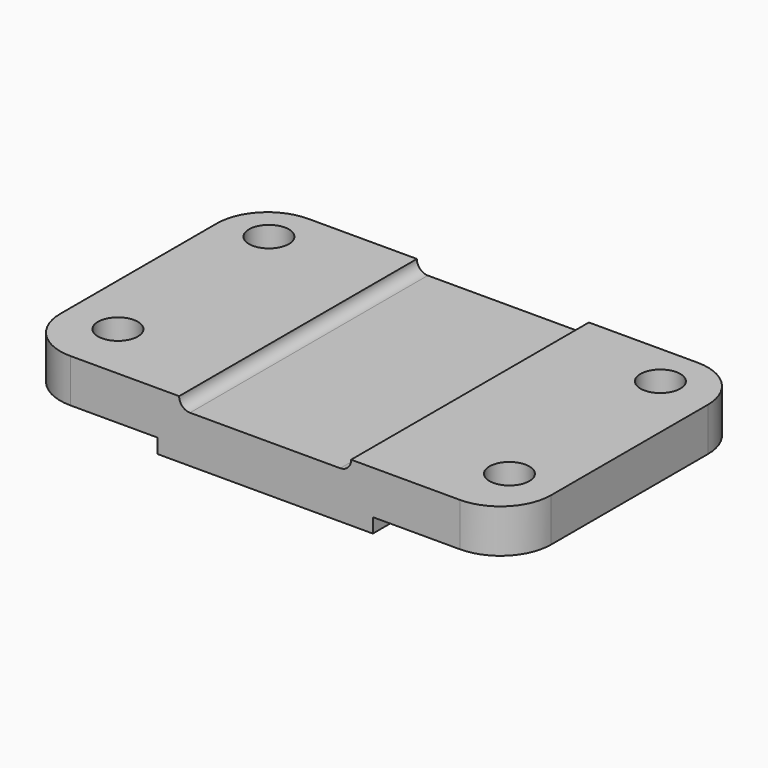
from build123d import *

# Parameters (mm, degrees)
F1_DEPTH = 82
F2_R     = 5.5
F3_DEPTH = 12.001
F4_R     = 14


with BuildPart() as f1:
    # F0 (on Front) → F1 (new body)
    with BuildSketch(Plane.XZ):
        with BuildLine():
            Line((0, 12), (0, 0))
            Line((0, 0), (38, 0))
            Line((38, 0), (38, -4))
            Line((38, -4), (97.442689, -4))
            Line((97.442689, -4), (97.442689, 0))
            Line((97.442689, 0), (135.442689, 0))
            Line((135.442689, 0), (135.442689, 12))
            Line((135.442689, 12), (91.442689, 12))
            Line((91.442689, 12), (91.442689, 11.946312))
            ThreePointArc((91.442689, 11.946312), (90.56401, 9.824992), (88.442689, 8.946312))
            Line((88.442689, 8.946312), (47.000647, 8.946312))
            ThreePointArc((47.000647, 8.946312), (44.889444, 9.814922), (44.000783, 11.917763))
            Line((44.000783, 11.917763), (44, 12))
            Line((44, 12), (0, 12))
        make_face()
    extrude(amount=F1_DEPTH)

    # F2 (on Top) → F3 (cut, through all)
    with BuildSketch(Plane.XY):
        with Locations((12.620713, -11.808709)):
            Circle(F2_R)
        with Locations((120.620713, -11.808709)):
            Circle(F2_R)
        with Locations((14.166683, -65.808709)):
            Circle(F2_R)
        with Locations((122.166683, -65.808709)):
            Circle(F2_R)
    extrude(amount=F3_DEPTH, mode=Mode.SUBTRACT)

    # F4
    f4_edges = [f1.edges().sort_by_distance(p)[0] for p in [
        (135.442689, 0, 6),
        (135.442689, -82, 6),
        (0, -82, 6),
        (0, 0, 6),
    ]]
    fillet(f4_edges, radius=F4_R)


solid = f1.part
